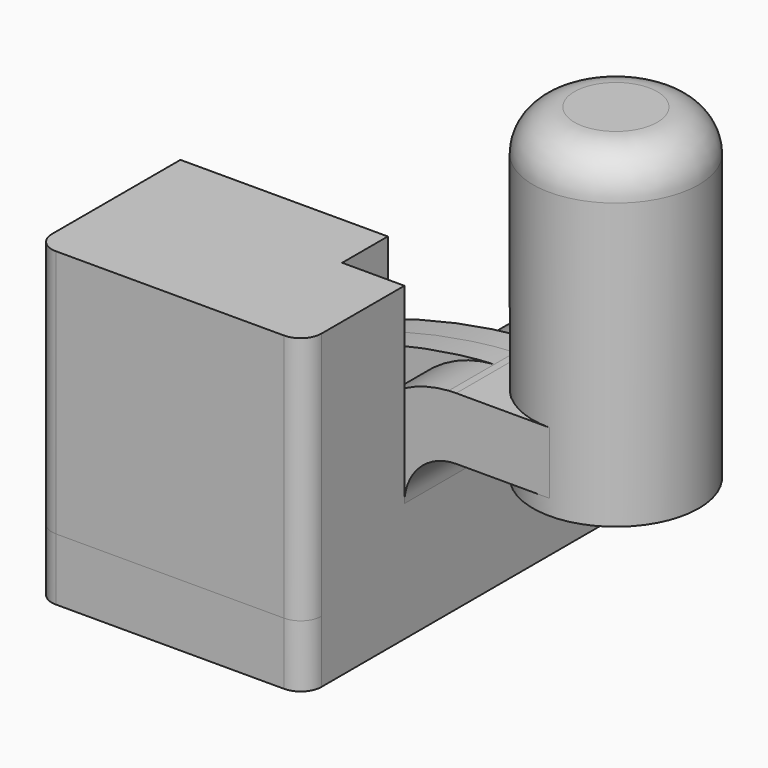
from build123d import *

# Parameters (mm, degrees)
F1_DEPTH = 63.5
F0_W     = 25.4
F0_H     = 19.05
F2_DEPTH = 25.4
F3_DEPTH = 7.9375
F5_R     = 6.35
F6_DEPTH = 71.374
F7_DEPTH = 76.2
F8_R     = 12.7


with BuildPart() as f1:
    # F0 (on Front) → F1 (new body, symmetric)
    with BuildSketch(Plane.XZ):
        Polygon((41.275, -9.525), (41.275, 9.525), (22.225, 9.525), (-41.275, 9.525), (-41.275, -9.525), align=None)
    extrude(amount=F1_DEPTH, both=True)

    # F0 (on Front) → F2 (join, symmetric)
    with BuildSketch(Plane.XZ):
        with BuildLine():
            Line((22.225, 9.525), (41.275, 9.525))
            Line((41.275, 9.525), (41.275, 27.0002))
            ThreePointArc((41.275, 27.0002), (45.9246798487, 38.2255201513), (57.15, 42.8752))
            Line((57.15, 42.8752), (60.325, 42.8752))
            Line((60.325, 42.8752), (60.325, 61.9252))
            Line((60.325, 61.9252), (57.15, 61.9252))
            add(Edge.make_bspline(
                [(54.8482161911, 61.8492662184), (55.6310728691, 61.884179015), (56.3987085315, 61.9095154181), (57.15, 61.9252)],
                knots=[108.9887730241, 108.9887730241, 108.9887730241, 108.9887730241, 111.5045361635, 111.5045361635, 111.5045361635, 111.5045361635], degree=3))
            ThreePointArc((54.8482161911, 61.8492662184), (31.6534764671, 50.8682311869), (22.225, 27.0002))
            Line((22.225, 27.0002), (22.225, 9.525))
        make_face()
        with Locations((73.025, 52.4002)):
            Rectangle(F0_W, F0_H)
    extrude(amount=F2_DEPTH, both=True)

    # F0 (on Front) → F3 (join, symmetric)
    with BuildSketch(Plane.XZ):
        with BuildLine():
            Line((-41.275, 9.525), (22.225, 9.525))
            Line((22.225, 9.525), (22.225, 27.0002))
            ThreePointArc((22.225, 27.0002), (31.6534764671, 50.8682311869), (54.8482161911, 61.8492662184))
            add(Edge.make_bspline(
                [(-41.275, 9.525), (-41.5493658366, 40.8510325395), (20.933024634, 60.3367618025), (54.8482161911, 61.8492662184)],
                knots=[0, 0, 0, 0, 108.9887730241, 108.9887730241, 108.9887730241, 108.9887730241], degree=3))
        make_face()
    extrude(amount=F3_DEPTH, both=True)

    # F0 (on Front) → F4 (revolve)
    with BuildSketch(Plane.XZ):
        Polygon((85.725, 61.9252), (85.725, 42.8752), (85.725, 38.1), (111.125, 38.1), (111.125, 66.675), (85.725, 66.675), align=None)
    revolve(axis=Axis((85.725, 0, 52.3875), (0, 0, -1)))

    # F5
    f5_edges = [f1.edges().sort_by_distance(p)[0] for p in [
        (41.275, -63.5, 0),
        (-41.275, -63.5, 0),
        (41.275, 63.5, 0),
        (-41.275, 63.5, 0),
    ]]
    fillet(f5_edges, radius=F5_R)

    # F6 (add): a face of the model
    f6_faces = [f1.faces().sort_by_distance(p)[0] for p in [
        (85.725, 0, 66.675),
    ]]
    extrude(f6_faces, amount=F6_DEPTH)

    # F7 (add): a face of the model
    f7_faces = [f1.faces().sort_by_distance(p)[0] for p in [
        (-2.4929619757, -37.1068375297, 9.525),
    ]]
    extrude(f7_faces, amount=F7_DEPTH)

    # F8
    f8_edges = [f1.edges().sort_by_distance(p)[0] for p in [
        (60.325, 0, 138.049),
    ]]
    fillet(f8_edges, radius=F8_R)


solid = f1.part
